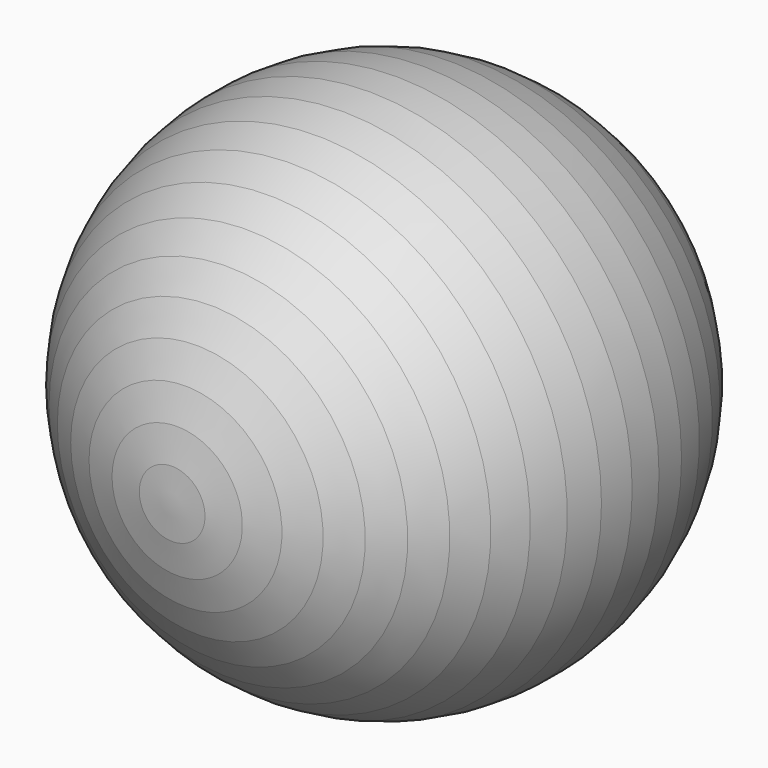
from build123d import *


with BuildPart() as f1:
    # F0 (on Top) → F1 (revolve)
    with BuildSketch(Plane.XY):
        Polygon((-20.2562586445, 13.1233732631), (-21.7413268012, 10.4811091493), (-22.8835212465, 7.6735516831), (-23.6648288919, 4.744977723), (-24.0729280489, 1.7415726296), (-24.1013827502, -1.2892981045), (-23.749744248, -4.2998358373), (-23.0235580916, -7.2425625904), (-21.9342766705, -10.0710698049), (-20.4990786034, -12.7407502324), (-18.7405978212, -15.2095014178), (-16.6865666162, -17.4383896801), (-14.3693782877, -19.39226412), (-11.8255762797, -21.0403109703), (-9.0952778695, -22.3565395478), (-6.221541494, -23.3201921414), (-3.2496876926, -23.9160713742), (-0.226584375, -24.1347798746), (0.226584375, 24.1347798746), (-2.8000923135, 23.972868479), (-5.7826098735, 23.4328906267), (-8.6739322215, 22.5233620912), (-11.4284614768, 21.2586266807), (-14.0027570675, 19.6586300281), (-16.3562208145, 17.7486050365), (-18.4517371885, 15.5586739409), align=None)
    revolve(axis=Axis((0, 0, 0), (-0.0093878789, -0.9999559329, 0)))


solid = f1.part
